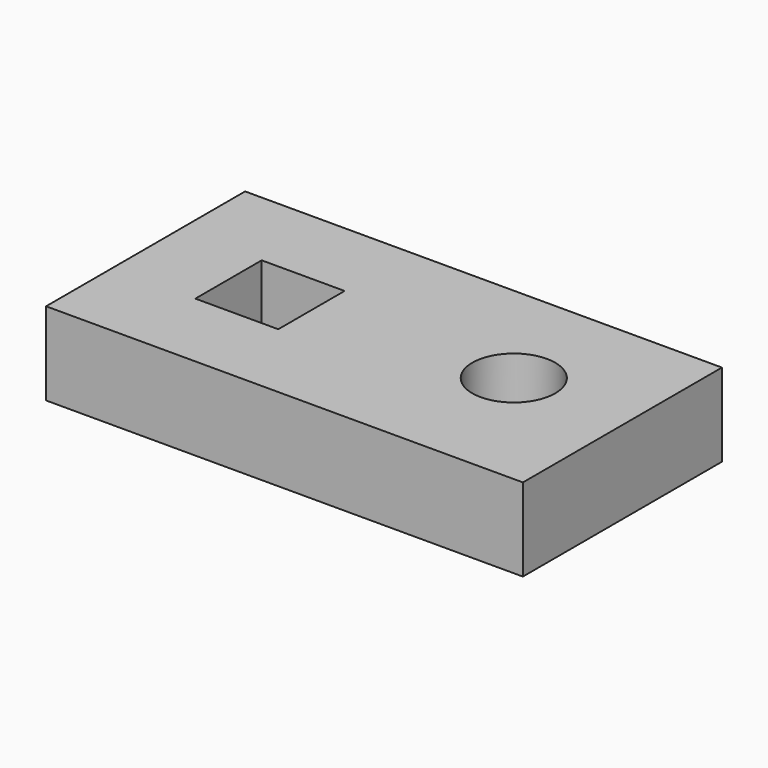
from build123d import *

# Parameters (mm, degrees)
F1_W     = 146.05
F1_H     = 76.2
F1_R     = 12.7
F2_DEPTH = 25.4
F3_W     = 25.4
F3_H     = 25.4
F4_DEPTH = 25.4


with BuildPart() as f2:
    # F1 (on face) → F2 (new body)
    with BuildSketch(Plane.XY):
        with Locations((-3.356862, 38.1)):
            Rectangle(F1_W, F1_H)
        with Locations((34.180883, 40.864296)):
            Circle(F1_R, mode=Mode.SUBTRACT)
    extrude(amount=F2_DEPTH)

    # F3 (on face) → F4 (cut)
    with BuildSketch(Plane.XY.offset(25.4)):
        with Locations((-38.281862, 38.1)):
            Rectangle(F3_W, F3_H)
    extrude(amount=-F4_DEPTH, mode=Mode.SUBTRACT)


solid = f2.part
